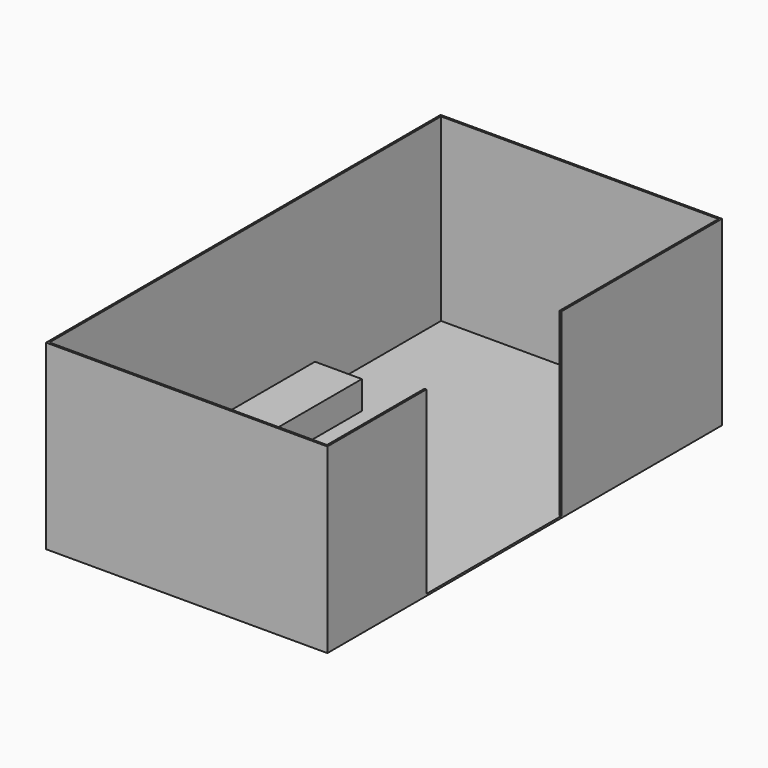
from build123d import *

# Parameters (mm, degrees)
F1_DEPTH = 2438.4
F2_W     = 3810
F2_H     = 6680.2
F3_DEPTH = 25.4
F4_W     = 635
F4_H     = 2089.15
F5_DEPTH = 381


with BuildPart() as f1:
    # F0 (on Top) → F1 (new body)
    with BuildSketch(Plane.XY):
        Polygon((1905, 3340.1), (-1905, 3340.1), (-1905, -3340.1), (1905, -3340.1), (1905, -1663.7), (1879.6, -1663.7), (1879.6, -3314.7), (-1879.6, -3314.7), (-1879.6, 3314.7), (1879.6, 3314.7), (1879.6, 622.3), (1905, 622.3), align=None)
    extrude(amount=F1_DEPTH)

    # F2 (on face) → F3 (join)
    with BuildSketch(Plane(origin=(0, 0, 0), x_dir=(1, 0, 0), z_dir=(0, 0, -1))):
        Rectangle(F2_W, F2_H)
    extrude(amount=F3_DEPTH)

    # F4 (on face) → F5 (join)
    with BuildSketch(Plane.XY):
        with Locations((-1562.1, 136.525)):
            Rectangle(F4_W, F4_H)
    extrude(amount=F5_DEPTH)


solid = f1.part
